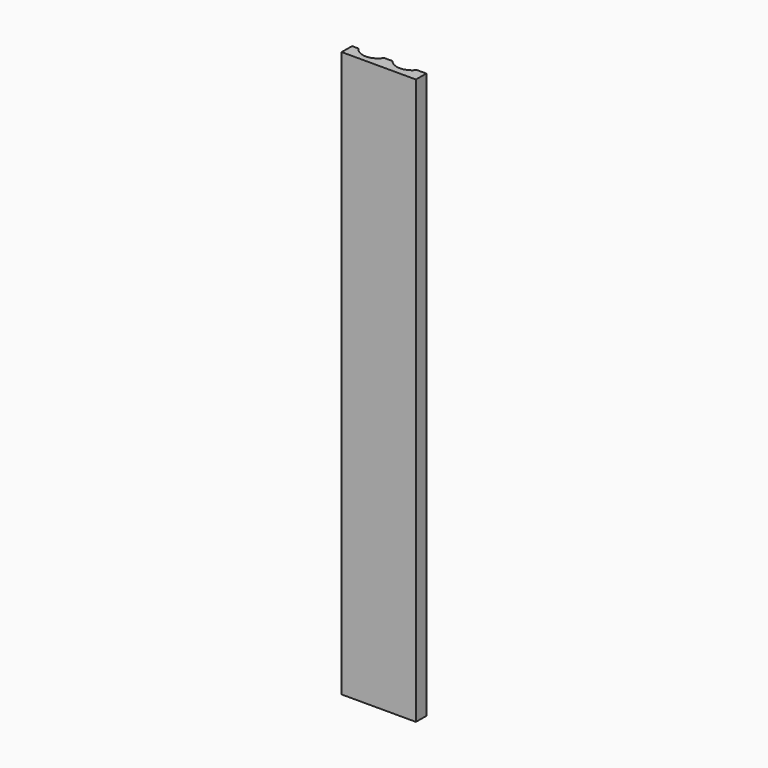
from build123d import *

# Parameters (mm, degrees)
F1_DEPTH = 319.024


with BuildPart() as f1:
    # F0 (on Top) → F1 (new body)
    with BuildSketch(Plane.XY):
        with BuildLine():
            Line((-3.723805, 0), (0, 0))
            Line((0, 0), (38.15455, 0))
            Line((38.15455, 0), (38.15455, 7.313689))
            Line((38.15455, 7.313689), (32.867547, 7.313689))
            ThreePointArc((32.867547, 7.313689), (25.972411, 3.959021), (19.077275, 7.313689))
            Line((19.077275, 7.313689), (14.36303, 7.313689))
            ThreePointArc((14.36303, 7.313689), (7.181515, 3.352431), (0, 7.313689))
            Line((0, 7.313689), (-3.723805, 7.313689))
            Line((-3.723805, 7.313689), (-3.723805, 0))
        make_face()
    extrude(amount=F1_DEPTH)


solid = f1.part
